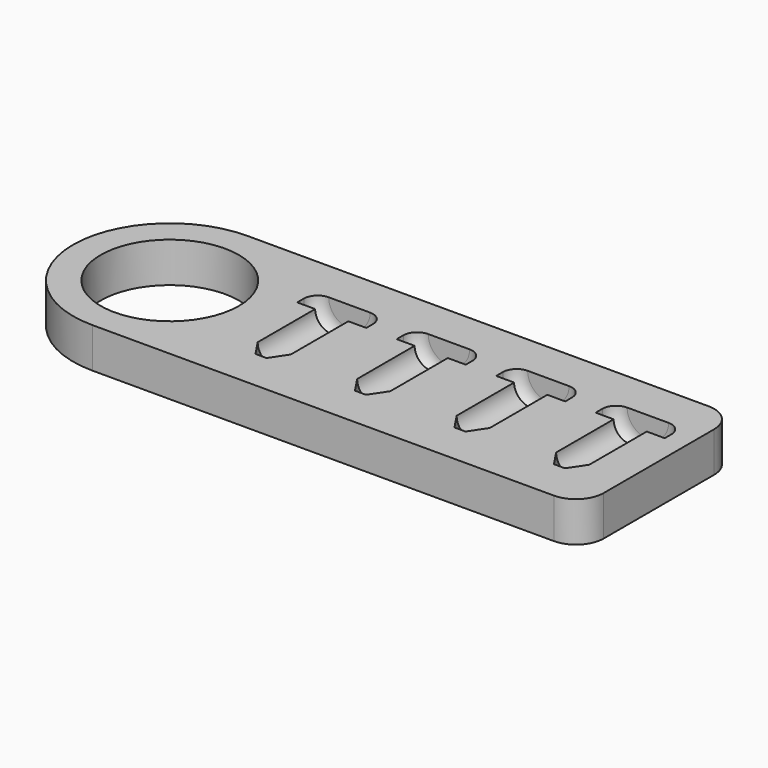
from build123d import *

# Parameters (mm, degrees)
F0_R     = 12.5
F1_DEPTH = 7.25


with BuildPart() as f1:
    # F0 (on Top) → F1 (new body)
    with BuildSketch(Plane.XY):
        with BuildLine():
            ThreePointArc((0, 17.5), (5.125631, 5.125631), (17.5, 0))
            Line((17.5, 0), (101, 0))
            ThreePointArc((101, 0), (104.535534, 1.464466), (106, 5))
            Line((106, 5), (106, 30))
            ThreePointArc((106, 30), (104.535534, 33.535534), (101, 35))
            Line((101, 35), (17.5, 35))
            ThreePointArc((17.5, 35), (5.125631, 29.874369), (0, 17.5))
        make_face()
        with Locations((17.5, 17.5)):
            Circle(F0_R, mode=Mode.SUBTRACT)
    extrude(amount=F1_DEPTH)

    # F2 (on face) → F3 (revolve, cut)
    with BuildSketch(Plane.XY.offset(7.25)):
        with BuildLine():
            Line((42, 10.5), (42, 7.5))
            Line((42, 7.5), (43, 7.5))
            Line((43, 7.5), (45, 10.5))
            Line((45, 10.5), (45, 23.5))
            Line((45, 23.5), (48.25, 23.5))
            Line((48.25, 23.5), (48.25, 25))
            ThreePointArc((48.25, 25), (47.517767, 26.767767), (45.75, 27.5))
            Line((45.75, 27.5), (42, 27.5))
            Line((42, 27.5), (42, 23.5))
            Line((42, 23.5), (42, 10.5))
        make_face()
    revolve(axis=Axis((42, 15.5, 7.25), (0, 1, 0)), mode=Mode.SUBTRACT)

    # F2 (on face) → F4 (revolve, cut)
    with BuildSketch(Plane.XY.offset(7.25)):
        with BuildLine():
            Line((60, 10.5), (60, 7.5))
            Line((60, 7.5), (61, 7.5))
            Line((61, 7.5), (63, 10.5))
            Line((63, 10.5), (63, 23.5))
            Line((63, 23.5), (66.25, 23.5))
            Line((66.25, 23.5), (66.25, 25))
            ThreePointArc((66.25, 25), (65.517767, 26.767767), (63.75, 27.5))
            Line((63.75, 27.5), (60, 27.5))
            Line((60, 27.5), (60, 23.5))
            Line((60, 23.5), (60, 10.5))
        make_face()
    revolve(axis=Axis((60, 15.5, 7.25), (0, 1, 0)), mode=Mode.SUBTRACT)

    # F2 (on face) → F5 (revolve, cut)
    with BuildSketch(Plane.XY.offset(7.25)):
        with BuildLine():
            Line((78, 10.5), (78, 7.5))
            Line((78, 7.5), (79, 7.5))
            Line((79, 7.5), (81, 10.5))
            Line((81, 10.5), (81, 23.5))
            Line((81, 23.5), (84.25, 23.5))
            Line((84.25, 23.5), (84.25, 25))
            ThreePointArc((84.25, 25), (83.517767, 26.767767), (81.75, 27.5))
            Line((81.75, 27.5), (78, 27.5))
            Line((78, 27.5), (78, 23.5))
            Line((78, 23.5), (78, 10.5))
        make_face()
    revolve(axis=Axis((78, 17, 7.25), (0, -1, 0)), mode=Mode.SUBTRACT)

    # F2 (on face) → F6 (revolve, cut)
    with BuildSketch(Plane.XY.offset(7.25)):
        with BuildLine():
            Line((96, 10.5), (96, 7.5))
            Line((96, 7.5), (97, 7.5))
            Line((97, 7.5), (99, 10.5))
            Line((99, 10.5), (99, 23.5))
            Line((99, 23.5), (102.25, 23.5))
            Line((102.25, 23.5), (102.25, 25))
            ThreePointArc((102.25, 25), (101.517767, 26.767767), (99.75, 27.5))
            Line((99.75, 27.5), (96, 27.5))
            Line((96, 27.5), (96, 23.5))
            Line((96, 23.5), (96, 10.5))
        make_face()
    revolve(axis=Axis((96, 15.5, 7.25), (0, 1, 0)), mode=Mode.SUBTRACT)


solid = f1.part
